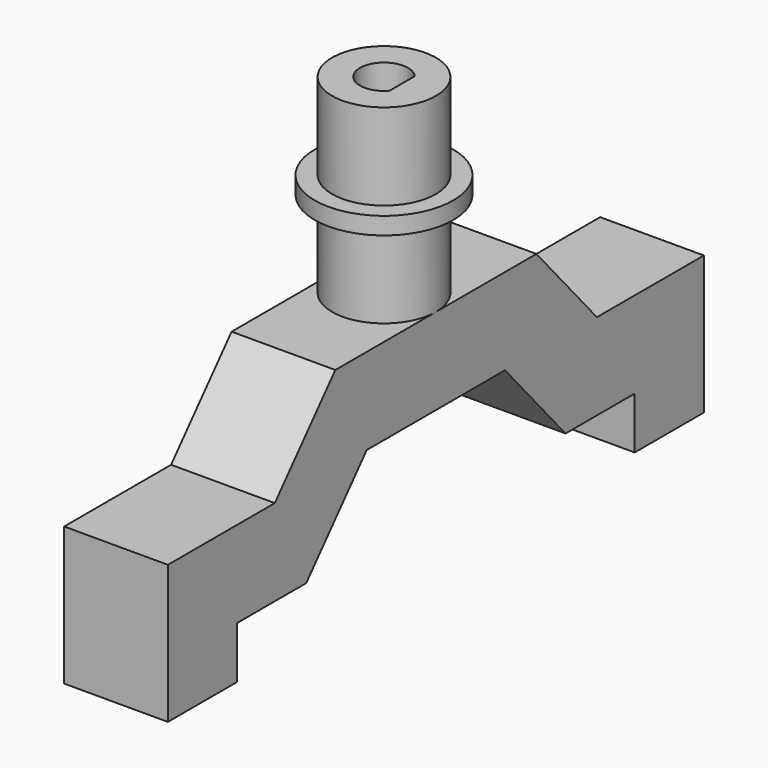
from build123d import *

# Parameters (mm, degrees)
PAD_DEPTH    = 12
SKETCH002_R  = 6
PAD001_DEPTH = 10
SKETCH003_R  = 8
PAD002_DEPTH = 2
SKETCH004_R  = 6
PAD003_DEPTH = 10
POCKET_DEPTH = 21


with BuildPart() as part:
    # Sketch → Pad (new body)
    with BuildSketch(Plane.YZ.offset(-6)):
        Polygon((-38.75, 0), (-38.75, 16), (-23.287682, 16), (-14.537682, 26), (14.537682, 26), (23.287682, 16), (38.75, 16), (38.75, 0), (28.75, 0), (28.75, 6), (18.75, 6), (10, 16), (-10, 16), (-18.75, 6), (-28.75, 6), (-28.75, 0), align=None)
    extrude(amount=PAD_DEPTH)

    # Sketch002 → Pad001 (new body)
    with BuildSketch(Plane(origin=(-6, 0, 26), x_dir=(0, -1, 0), z_dir=(0, 0, 1))):
        with Locations((0, 6)):
            Circle(SKETCH002_R)
    extrude(amount=PAD001_DEPTH)

    # Sketch003 → Pad002 (new body)
    with BuildSketch(Plane(origin=(-6, 0, 36), x_dir=(0, -1, 0), z_dir=(0, 0, 1))):
        with Locations((0, 6)):
            Circle(SKETCH003_R)
    extrude(amount=PAD002_DEPTH)

    # Sketch004 → Pad003 (new body)
    with BuildSketch(Plane(origin=(-6, 0, 38), x_dir=(0, -1, 0), z_dir=(0, 0, 1))):
        with Locations((0, 6)):
            Circle(SKETCH004_R)
    extrude(amount=PAD003_DEPTH)

    # Sketch005 → Pocket (cut)
    with BuildSketch(Plane(origin=(-6, 0, 48), x_dir=(0, -1, 0), z_dir=(0, 0, 1))):
        with BuildLine():
            Line((-1.821648, 8.1), (1.821648, 8.1))
            ThreePointArc((-1.821648, 8.1), (0, 3.22), (1.821648, 8.1))
        make_face()
    extrude(amount=-POCKET_DEPTH, mode=Mode.SUBTRACT)


solid = part.part
